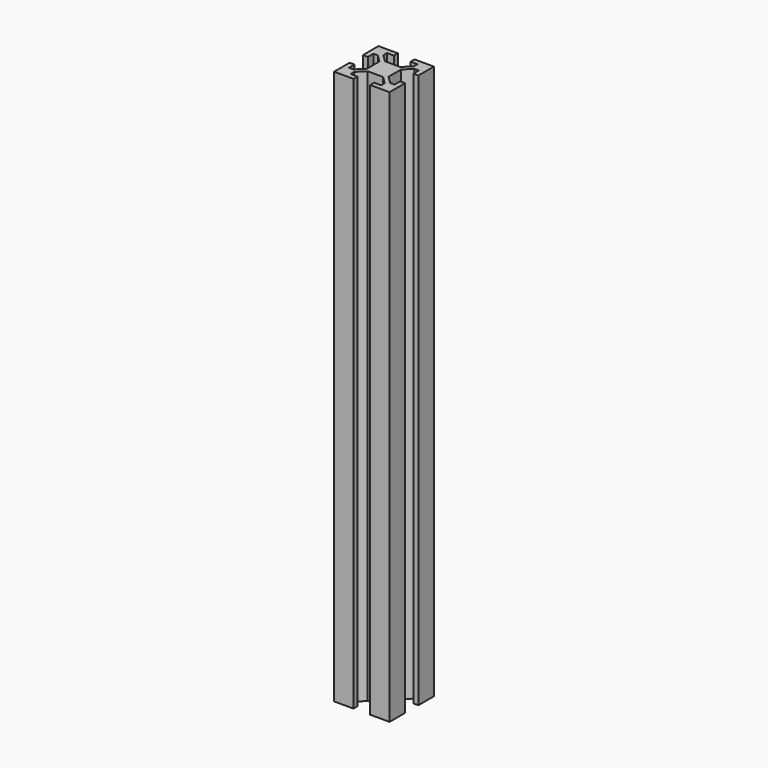
from build123d import *

# Parameters (mm, degrees)
F1_DEPTH = 200


with BuildPart() as f1:
    # F0 (on Top) → F1 (new body)
    with BuildSketch(Plane.XY):
        Polygon((-5.70796, 17.630353), (-12.70796, 17.630353), (-12.70796, 10.630353), (-10.90796, 10.630353), (-10.90796, 13.130353), (-9.30796, 13.130353), (-6.60796, 10.430353), (-6.60796, 4.830353), (-9.30796, 2.130353), (-10.90796, 2.130353), (-10.90796, 4.630353), (-12.70796, 4.630353), (-12.70796, -2.369647), (-5.70796, -2.369647), (-5.70796, -0.569647), (-8.20796, -0.569647), (-8.20796, 1.030353), (-5.50796, 3.730353), (0.09204, 3.730353), (2.79204, 1.030353), (2.79204, -0.569647), (0.29204, -0.569647), (0.29204, -2.369647), (7.29204, -2.369647), (7.29204, 4.630353), (5.49204, 4.630353), (5.49204, 2.130353), (3.89204, 2.130353), (1.19204, 4.830353), (1.19204, 10.430353), (3.89204, 13.130353), (5.49204, 13.130353), (5.49204, 10.630353), (7.29204, 10.630353), (7.29204, 17.630353), (0.29204, 17.630353), (0.29204, 15.830353), (2.79204, 15.830353), (2.79204, 14.230353), (0.09204, 11.530353), (-5.50796, 11.530353), (-8.20796, 14.230353), (-8.20796, 15.830353), (-5.70796, 15.830353), align=None)
    extrude(amount=F1_DEPTH)


solid = f1.part
